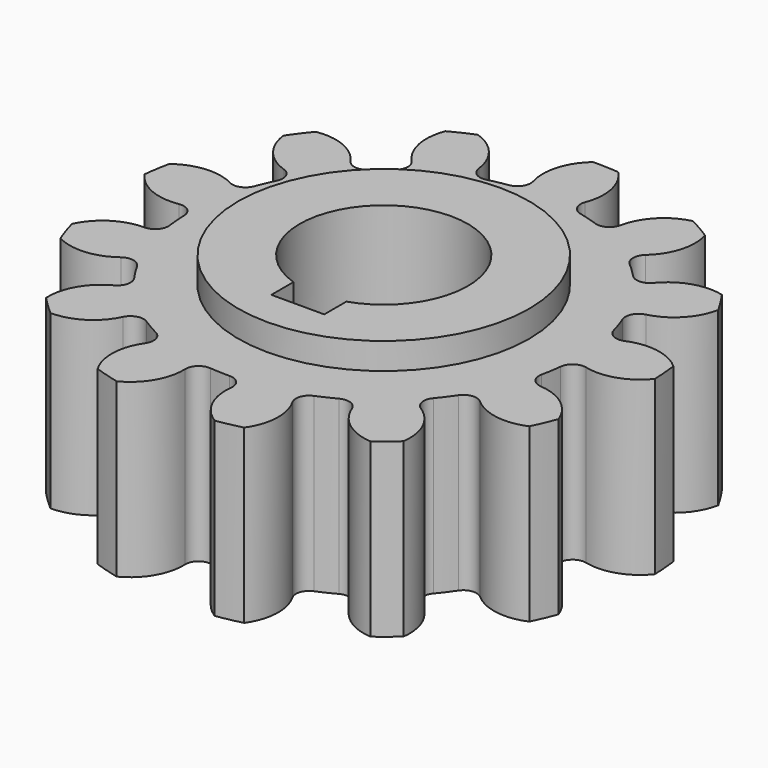
from build123d import *

# Parameters (mm, degrees)
F0_R     = 100
F1_DEPTH = 65
F2_R     = 55
F3_DEPTH = 10
F4_R     = 55
F5_DEPTH = 10
F7_DEPTH = 100
F9_DEPTH = 100


with BuildPart() as f1:
    # F0 (on Top) → F1 (new body)
    with BuildSketch(Plane.XY):
        Circle(F0_R)
    extrude(amount=-F1_DEPTH)

    # F2 (on face) → F3 (join)
    with BuildSketch(Plane.XY):
        Circle(F2_R)
    extrude(amount=F3_DEPTH)

    # F4 (on face) → F5 (join)
    with BuildSketch(Plane(origin=(0, 0, -65), x_dir=(1, 0, 0), z_dir=(0, 0, -1))):
        Circle(F4_R)
    extrude(amount=F5_DEPTH)

    # F6 (on face) → F7 (cut)
    with BuildSketch(Plane(origin=(0, 0, -75), x_dir=(1, 0, 0), z_dir=(0, 0, -1))):
        with BuildLine():
            Line((-10, 40.622641), (-10, 30.171126))
            ThreePointArc((-10, 30.171126), (0, -31.785167), (10, 30.171126))
            Line((10, 30.171126), (10, 40.622641))
            Line((10, 40.622641), (-10, 40.622641))
        make_face()
    extrude(amount=-F7_DEPTH, mode=Mode.SUBTRACT)

    # F8 (on face) → F9 (cut)
    with BuildSketch(Plane(origin=(0, 0, -65), x_dir=(1, 0, 0), z_dir=(0, 0, -1))):
        with BuildLine():
            ThreePointArc((-97.972724, 32.684038), (-98.378572, 32.261585), (-98.771916, 31.827468))
            ThreePointArc((-98.771916, 31.827468), (-103.438549, 8.327414), (-102.591438, -15.616529))
            ThreePointArc((-102.591438, -15.616529), (-102.272607, -16.10798), (-101.939568, -16.589917))
            ThreePointArc((-101.939568, -16.589917), (-93.359506, -5.422456), (-79.553654, -2.642511))
            ThreePointArc((-79.553654, -2.642511), (-75.571783, -1.559419), (-73.760239, 2.148234))
            ThreePointArc((-73.760239, 2.148234), (-73.553543, 5.921495), (-73.15395, 9.679226))
            ThreePointArc((-73.15395, 9.679226), (-74.349031, 13.62893), (-78.106352, 15.335073))
            ThreePointArc((-78.106352, 15.335073), (-91.289678, 20.287806), (-97.972724, 32.684038))
        make_face()
        with BuildLine():
            ThreePointArc((-97.972724, 32.684038), (-98.378572, 32.261585), (-98.771916, 31.827468))
            ThreePointArc((-98.771916, 31.827468), (-103.438549, 8.327414), (-102.591438, -15.616529))
            ThreePointArc((-102.591438, -15.616529), (-102.272607, -16.10798), (-101.939568, -16.589917))
            ThreePointArc((-101.939568, -16.589917), (-93.359506, -5.422456), (-79.553654, -2.642511))
            ThreePointArc((-79.553654, -2.642511), (-75.571783, -1.559419), (-73.760239, 2.148234))
            ThreePointArc((-73.760239, 2.148234), (-73.553543, 5.921495), (-73.15395, 9.679226))
            ThreePointArc((-73.15395, 9.679226), (-74.349031, 13.62893), (-78.106352, 15.335073))
            ThreePointArc((-78.106352, 15.335073), (-91.289678, 20.287806), (-97.972724, 32.684038))
        make_face()
        with BuildLine():
            ThreePointArc((-71.561509, 74.470473), (-72.117193, 74.285017), (-72.667226, 74.083422))
            ThreePointArc((-72.667226, 74.083422), (-87.720344, 55.44385), (-98.09757, 33.848869))
            ThreePointArc((-98.09757, 33.848869), (-98.043648, 33.265542), (-97.972724, 32.684038))
            ThreePointArc((-97.972724, 32.684038), (-85.185678, 38.584979), (-71.669298, 34.630598))
            ThreePointArc((-71.669298, 34.630598), (-67.640189, 33.739162), (-64.313114, 36.180259))
            ThreePointArc((-64.313114, 36.180259), (-62.376572, 39.425259), (-60.276445, 42.566864))
            ThreePointArc((-60.276445, 42.566864), (-59.499118, 46.619536), (-62.033176, 49.876364))
            ThreePointArc((-62.033176, 49.876364), (-71.404782, 60.388389), (-71.561509, 74.470473))
        make_face()
        with BuildLine():
            ThreePointArc((-71.561509, 74.470473), (-72.117193, 74.285017), (-72.667226, 74.083422))
            ThreePointArc((-72.667226, 74.083422), (-87.720344, 55.44385), (-98.09757, 33.848869))
            ThreePointArc((-98.09757, 33.848869), (-98.043648, 33.265542), (-97.972724, 32.684038))
            ThreePointArc((-97.972724, 32.684038), (-85.185678, 38.584979), (-71.669298, 34.630598))
            ThreePointArc((-71.669298, 34.630598), (-67.640189, 33.739162), (-64.313114, 36.180259))
            ThreePointArc((-64.313114, 36.180259), (-62.376572, 39.425259), (-60.276445, 42.566864))
            ThreePointArc((-60.276445, 42.566864), (-59.499118, 46.619536), (-62.033176, 49.876364))
            ThreePointArc((-62.033176, 49.876364), (-71.404782, 60.388389), (-71.561509, 74.470473))
        make_face()
        with BuildLine():
            ThreePointArc((-101.939568, -16.589917), (-102.102605, -17.152587), (-102.24915, -17.719775))
            ThreePointArc((-102.24915, -17.719775), (-95.460229, -40.696731), (-83.582844, -61.504368))
            ThreePointArc((-83.582844, -61.504368), (-83.072145, -61.791359), (-82.553286, -62.063322))
            ThreePointArc((-82.553286, -62.063322), (-80.145796, -48.187672), (-69.213226, -39.310254))
            ThreePointArc((-69.213226, -39.310254), (-66.190793, -36.500755), (-66.309783, -32.375925))
            ThreePointArc((-66.309783, -32.375925), (-67.880284, -28.938813), (-69.272766, -25.425807))
            ThreePointArc((-69.272766, -25.425807), (-72.166477, -22.4839), (-76.286304, -22.719299))
            ThreePointArc((-76.286304, -22.719299), (-90.261209, -24.460468), (-101.939568, -16.589917))
        make_face()
        with BuildLine():
            ThreePointArc((-101.939568, -16.589917), (-102.102605, -17.152587), (-102.24915, -17.719775))
            ThreePointArc((-102.24915, -17.719775), (-95.460229, -40.696731), (-83.582844, -61.504368))
            ThreePointArc((-83.582844, -61.504368), (-83.072145, -61.791359), (-82.553286, -62.063322))
            ThreePointArc((-82.553286, -62.063322), (-80.145796, -48.187672), (-69.213226, -39.310254))
            ThreePointArc((-69.213226, -39.310254), (-66.190793, -36.500755), (-66.309783, -32.375925))
            ThreePointArc((-66.309783, -32.375925), (-67.880284, -28.938813), (-69.272766, -25.425807))
            ThreePointArc((-69.272766, -25.425807), (-72.166477, -22.4839), (-76.286304, -22.719299))
            ThreePointArc((-76.286304, -22.719299), (-90.261209, -24.460468), (-101.939568, -16.589917))
        make_face()
        with BuildLine():
            ThreePointArc((-31.748947, 72.991582), (-35.16191, 86.65472), (-28.756415, 99.196621))
            ThreePointArc((-28.756415, 99.196621), (-29.334634, 99.290647), (-29.915351, 99.367756))
            ThreePointArc((-29.915351, 99.367756), (-51.906465, 89.858767), (-71.130731, 75.559899))
            ThreePointArc((-71.130731, 75.559899), (-71.354071, 75.01833), (-71.561509, 74.470473))
            ThreePointArc((-71.561509, 74.470473), (-57.496838, 73.753061), (-47.36637, 63.970256))
            ThreePointArc((-47.36637, 63.970256), (-44.213042, 61.308508), (-40.132629, 61.923823))
            ThreePointArc((-40.132629, 61.923823), (-36.90988, 63.897172), (-33.590333, 65.702947))
            ThreePointArc((-33.590333, 65.702947), (-31.018674, 68.930168), (-31.748947, 72.991582))
        make_face()
        with BuildLine():
            ThreePointArc((-31.748947, 72.991582), (-35.16191, 86.65472), (-28.756415, 99.196621))
            ThreePointArc((-28.756415, 99.196621), (-29.334634, 99.290647), (-29.915351, 99.367756))
            ThreePointArc((-29.915351, 99.367756), (-51.906465, 89.858767), (-71.130731, 75.559899))
            ThreePointArc((-71.130731, 75.559899), (-71.354071, 75.01833), (-71.561509, 74.470473))
            ThreePointArc((-71.561509, 74.470473), (-57.496838, 73.753061), (-47.36637, 63.970256))
            ThreePointArc((-47.36637, 63.970256), (-44.213042, 61.308508), (-40.132629, 61.923823))
            ThreePointArc((-40.132629, 61.923823), (-36.90988, 63.897172), (-33.590333, 65.702947))
            ThreePointArc((-33.590333, 65.702947), (-31.018674, 68.930168), (-31.748947, 72.991582))
        make_face()
        with BuildLine():
            ThreePointArc((-6.758243, 73.481385), (-2.98758, 73.731012), (0.790919, 73.787277))
            ThreePointArc((0.790919, 73.787277), (4.567774, 75.449729), (5.808583, 79.385307))
            ThreePointArc((5.808583, 79.385307), (9.136131, 93.069498), (20.636427, 101.198018))
            ThreePointArc((20.636427, 101.198018), (20.168136, 101.549985), (19.689771, 101.888135))
            ThreePointArc((19.689771, 101.888135), (-4.201441, 103.688124), (-27.868698, 99.961067))
            ThreePointArc((-27.868698, 99.961067), (-28.318136, 99.585322), (-28.756415, 99.196621))
            ThreePointArc((-28.756415, 99.196621), (-16.636165, 92.025205), (-12.212378, 78.655098))
            ThreePointArc((-12.212378, 78.655098), (-10.65722, 74.832813), (-6.758243, 73.481385))
        make_face()
        with BuildLine():
            ThreePointArc((-6.758243, 73.481385), (-2.98758, 73.731012), (0.790919, 73.787277))
            ThreePointArc((0.790919, 73.787277), (4.567774, 75.449729), (5.808583, 79.385307))
            ThreePointArc((5.808583, 79.385307), (9.136131, 93.069498), (20.636427, 101.198018))
            ThreePointArc((20.636427, 101.198018), (20.168136, 101.549985), (19.689771, 101.888135))
            ThreePointArc((19.689771, 101.888135), (-4.201441, 103.688124), (-27.868698, 99.961067))
            ThreePointArc((-27.868698, 99.961067), (-28.318136, 99.585322), (-28.756415, 99.196621))
            ThreePointArc((-28.756415, 99.196621), (-16.636165, 92.025205), (-12.212378, 78.655098))
            ThreePointArc((-12.212378, 78.655098), (-10.65722, 74.832813), (-6.758243, 73.481385))
        make_face()
        with BuildLine():
            ThreePointArc((103.518596, -7.264953), (102.425693, 16.66903), (95.873038, 39.714479))
            ThreePointArc((95.873038, 39.714479), (95.445859, 40.115349), (95.007163, 40.50358))
            ThreePointArc((95.007163, 40.50358), (89.34897, 27.607282), (76.609575, 21.60416))
            ThreePointArc((76.609575, 21.60416), (73.002611, 19.599616), (72.131007, 15.56617))
            ThreePointArc((72.131007, 15.56617), (72.833317, 11.853088), (73.344619, 8.108921))
            ThreePointArc((73.344619, 8.108921), (75.4502, 4.55999), (79.506646, 3.80261))
            ThreePointArc((79.506646, 3.80261), (93.492156, 2.14877), (102.947617, -8.287891))
            ThreePointArc((102.947617, -8.287891), (103.240572, -7.780589), (103.518596, -7.264953))
        make_face()
        with BuildLine():
            ThreePointArc((103.518596, -7.264953), (102.425693, 16.66903), (95.873038, 39.714479))
            ThreePointArc((95.873038, 39.714479), (95.445859, 40.115349), (95.007163, 40.50358))
            ThreePointArc((95.007163, 40.50358), (89.34897, 27.607282), (76.609575, 21.60416))
            ThreePointArc((76.609575, 21.60416), (73.002611, 19.599616), (72.131007, 15.56617))
            ThreePointArc((72.131007, 15.56617), (72.833317, 11.853088), (73.344619, 8.108921))
            ThreePointArc((73.344619, 8.108921), (75.4502, 4.55999), (79.506646, 3.80261))
            ThreePointArc((79.506646, 3.80261), (93.492156, 2.14877), (102.947617, -8.287891))
            ThreePointArc((102.947617, -8.287891), (103.240572, -7.780589), (103.518596, -7.264953))
        make_face()
        with BuildLine():
            ThreePointArc((95.037356, 41.674694), (82.946962, 62.359286), (66.43512, 79.719847))
            ThreePointArc((66.43512, 79.719847), (65.870579, 79.87628), (65.301713, 80.016169))
            ThreePointArc((65.301713, 80.016169), (66.28484, 65.967571), (57.794455, 54.731778))
            ThreePointArc((57.794455, 54.731778), (55.532206, 51.280603), (56.634875, 47.304109))
            ThreePointArc((56.634875, 47.304109), (58.982295, 44.342719), (61.175032, 41.265037))
            ThreePointArc((61.175032, 41.265037), (64.688701, 39.101127), (68.632478, 40.315624))
            ThreePointArc((68.632478, 40.315624), (81.784609, 45.350613), (95.007163, 40.50358))
            ThreePointArc((95.007163, 40.50358), (95.030807, 41.088916), (95.037356, 41.674694))
        make_face()
        with BuildLine():
            ThreePointArc((95.037356, 41.674694), (82.946962, 62.359286), (66.43512, 79.719847))
            ThreePointArc((66.43512, 79.719847), (65.870579, 79.87628), (65.301713, 80.016169))
            ThreePointArc((65.301713, 80.016169), (66.28484, 65.967571), (57.794455, 54.731778))
            ThreePointArc((57.794455, 54.731778), (55.532206, 51.280603), (56.634875, 47.304109))
            ThreePointArc((56.634875, 47.304109), (58.982295, 44.342719), (61.175032, 41.265037))
            ThreePointArc((61.175032, 41.265037), (64.688701, 39.101127), (68.632478, 40.315624))
            ThreePointArc((68.632478, 40.315624), (81.784609, 45.350613), (95.007163, 40.50358))
            ThreePointArc((95.007163, 40.50358), (95.030807, 41.088916), (95.037356, 41.674694))
        make_face()
        with BuildLine():
            ThreePointArc((5.265805, -103.639522), (28.893547, -99.669665), (50.981133, -90.386964))
            ThreePointArc((50.981133, -90.386964), (51.32759, -89.91458), (51.660111, -89.432287))
            ThreePointArc((51.660111, -89.432287), (38.175822, -85.369825), (30.680905, -73.446911))
            ThreePointArc((30.680905, -73.446911), (28.256205, -70.107867), (24.147107, -69.728796))
            ThreePointArc((24.147107, -69.728796), (20.545752, -70.873548), (16.890515, -71.832432))
            ThreePointArc((16.890515, -71.832432), (13.621259, -74.350437), (13.358352, -78.468599))
            ThreePointArc((13.358352, -78.468599), (13.402337, -92.551487), (4.181501, -103.196008))
            ThreePointArc((4.181501, -103.196008), (4.720416, -103.425678), (5.265805, -103.639522))
        make_face()
        with BuildLine():
            ThreePointArc((5.265805, -103.639522), (28.893547, -99.669665), (50.981133, -90.386964))
            ThreePointArc((50.981133, -90.386964), (51.32759, -89.91458), (51.660111, -89.432287))
            ThreePointArc((51.660111, -89.432287), (38.175822, -85.369825), (30.680905, -73.446911))
            ThreePointArc((30.680905, -73.446911), (28.256205, -70.107867), (24.147107, -69.728796))
            ThreePointArc((24.147107, -69.728796), (20.545752, -70.873548), (16.890515, -71.832432))
            ThreePointArc((16.890515, -71.832432), (13.621259, -74.350437), (13.358352, -78.468599))
            ThreePointArc((13.358352, -78.468599), (13.402337, -92.551487), (4.181501, -103.196008))
            ThreePointArc((4.181501, -103.196008), (4.720416, -103.425678), (5.265805, -103.639522))
        make_face()
        with BuildLine():
            ThreePointArc((52.826326, -89.321098), (71.902768, -74.825604), (87.146468, -56.341568))
            ThreePointArc((87.146468, -56.341568), (87.233713, -55.762287), (87.304013, -55.180706))
            ThreePointArc((87.304013, -55.180706), (73.476347, -57.850037), (61.299074, -50.775882))
            ThreePointArc((61.299074, -50.775882), (57.600378, -48.94612), (53.785789, -50.520062))
            ThreePointArc((53.785789, -50.520062), (51.12894, -53.207323), (48.338004, -55.755046))
            ThreePointArc((48.338004, -55.755046), (46.613397, -59.503928), (48.294409, -63.272559))
            ThreePointArc((48.294409, -63.272559), (54.878001, -75.721895), (51.660111, -89.432287))
            ThreePointArc((51.660111, -89.432287), (52.24403, -89.385203), (52.826326, -89.321098))
        make_face()
        with BuildLine():
            ThreePointArc((52.826326, -89.321098), (71.902768, -74.825604), (87.146468, -56.341568))
            ThreePointArc((87.146468, -56.341568), (87.233713, -55.762287), (87.304013, -55.180706))
            ThreePointArc((87.304013, -55.180706), (73.476347, -57.850037), (61.299074, -50.775882))
            ThreePointArc((61.299074, -50.775882), (57.600378, -48.94612), (53.785789, -50.520062))
            ThreePointArc((53.785789, -50.520062), (51.12894, -53.207323), (48.338004, -55.755046))
            ThreePointArc((48.338004, -55.755046), (46.613397, -59.503928), (48.294409, -63.272559))
            ThreePointArc((48.294409, -63.272559), (54.878001, -75.721895), (51.660111, -89.432287))
            ThreePointArc((51.660111, -89.432287), (52.24403, -89.385203), (52.826326, -89.321098))
        make_face()
        with BuildLine():
            ThreePointArc((88.284972, -54.540287), (98.439932, -32.8399), (103.347597, -9.388997))
            ThreePointArc((103.347597, -9.388997), (103.155643, -8.835525), (102.947617, -8.287891))
            ThreePointArc((102.947617, -8.287891), (91.944327, -17.077503), (77.874363, -16.472711))
            ThreePointArc((77.874363, -16.472711), (73.748998, -16.571407), (71.102795, -19.737791))
            ThreePointArc((71.102795, -19.737791), (69.999104, -23.351942), (68.711839, -26.904851))
            ThreePointArc((68.711839, -26.904851), (68.926967, -31.025786), (72.1668, -33.581537))
            ThreePointArc((72.1668, -33.581537), (83.781776, -41.545329), (87.304013, -55.180706))
            ThreePointArc((87.304013, -55.180706), (87.799166, -54.867656), (88.284972, -54.540287))
        make_face()
        with BuildLine():
            ThreePointArc((88.284972, -54.540287), (98.439932, -32.8399), (103.347597, -9.388997))
            ThreePointArc((103.347597, -9.388997), (103.155643, -8.835525), (102.947617, -8.287891))
            ThreePointArc((102.947617, -8.287891), (91.944327, -17.077503), (77.874363, -16.472711))
            ThreePointArc((77.874363, -16.472711), (73.748998, -16.571407), (71.102795, -19.737791))
            ThreePointArc((71.102795, -19.737791), (69.999104, -23.351942), (68.711839, -26.904851))
            ThreePointArc((68.711839, -26.904851), (68.926967, -31.025786), (72.1668, -33.581537))
            ThreePointArc((72.1668, -33.581537), (83.781776, -41.545329), (87.304013, -55.180706))
            ThreePointArc((87.304013, -55.180706), (87.799166, -54.867656), (88.284972, -54.540287))
        make_face()
        with BuildLine():
            ThreePointArc((-44.255041, -93.318767), (-43.884589, -93.772577), (-43.501049, -94.21538))
            ThreePointArc((-43.501049, -94.21538), (-20.734837, -101.680606), (3.136635, -103.725796))
            ThreePointArc((3.136635, -103.725796), (3.662934, -103.468527), (4.181501, -103.196008))
            ThreePointArc((4.181501, -103.196008), (-5.870324, -93.332415), (-6.965889, -79.292137))
            ThreePointArc((-6.965889, -79.292137), (-7.561123, -75.208747), (-11.023386, -72.963503))
            ThreePointArc((-11.023386, -72.963503), (-14.74422, -72.303498), (-18.426387, -71.453874))
            ThreePointArc((-18.426387, -71.453874), (-22.491345, -72.164157), (-24.637944, -75.68843))
            ThreePointArc((-24.637944, -75.68843), (-31.14364, -88.178649), (-44.255041, -93.318767))
        make_face()
        with BuildLine():
            ThreePointArc((-44.255041, -93.318767), (-43.884589, -93.772577), (-43.501049, -94.21538))
            ThreePointArc((-43.501049, -94.21538), (-20.734837, -101.680606), (3.136635, -103.725796))
            ThreePointArc((3.136635, -103.725796), (3.662934, -103.468527), (4.181501, -103.196008))
            ThreePointArc((4.181501, -103.196008), (-5.870324, -93.332415), (-6.965889, -79.292137))
            ThreePointArc((-6.965889, -79.292137), (-7.561123, -75.208747), (-11.023386, -72.963503))
            ThreePointArc((-11.023386, -72.963503), (-14.74422, -72.303498), (-18.426387, -71.453874))
            ThreePointArc((-18.426387, -71.453874), (-22.491345, -72.164157), (-24.637944, -75.68843))
            ThreePointArc((-24.637944, -75.68843), (-31.14364, -88.178649), (-44.255041, -93.318767))
        make_face()
        with BuildLine():
            ThreePointArc((-82.553286, -62.063322), (-82.436163, -62.637308), (-82.302336, -63.207631))
            ThreePointArc((-82.302336, -63.207631), (-65.61312, -80.397746), (-45.426428, -93.302298))
            ThreePointArc((-45.426428, -93.302298), (-44.840855, -93.319082), (-44.255041, -93.318767))
            ThreePointArc((-44.255041, -93.318767), (-48.57165, -79.913673), (-43.016882, -66.972491))
            ThreePointArc((-43.016882, -66.972491), (-41.64629, -63.080209), (-43.668554, -59.483151))
            ThreePointArc((-43.668554, -59.483151), (-46.656469, -57.169587), (-49.522027, -54.706094))
            ThreePointArc((-49.522027, -54.706094), (-53.451453, -53.445939), (-56.989983, -55.568953))
            ThreePointArc((-56.989983, -55.568953), (-68.554985, -63.605144), (-82.553286, -62.063322))
        make_face()
        with BuildLine():
            ThreePointArc((-82.553286, -62.063322), (-82.436163, -62.637308), (-82.302336, -63.207631))
            ThreePointArc((-82.302336, -63.207631), (-65.61312, -80.397746), (-45.426428, -93.302298))
            ThreePointArc((-45.426428, -93.302298), (-44.840855, -93.319082), (-44.255041, -93.318767))
            ThreePointArc((-44.255041, -93.318767), (-48.57165, -79.913673), (-43.016882, -66.972491))
            ThreePointArc((-43.016882, -66.972491), (-41.64629, -63.080209), (-43.668554, -59.483151))
            ThreePointArc((-43.668554, -59.483151), (-46.656469, -57.169587), (-49.522027, -54.706094))
            ThreePointArc((-49.522027, -54.706094), (-53.451453, -53.445939), (-56.989983, -55.568953))
            ThreePointArc((-56.989983, -55.568953), (-68.554985, -63.605144), (-82.553286, -62.063322))
        make_face()
        with BuildLine():
            ThreePointArc((21.777717, 101.462359), (21.205143, 101.338518), (20.636427, 101.198018))
            ThreePointArc((20.636427, 101.198018), (28.035652, 89.215484), (25.739323, 75.321006))
            ThreePointArc((25.739323, 75.321006), (25.340042, 71.213822), (28.164375, 68.205247))
            ThreePointArc((28.164375, 68.205247), (31.61914, 66.673967), (34.990981, 64.967831))
            ThreePointArc((34.990981, 64.967831), (39.1078, 64.684667), (42.035437, 67.592816))
            ThreePointArc((42.035437, 67.592816), (51.341194, 78.163176), (65.301713, 80.016169))
            ThreePointArc((65.301713, 80.016169), (65.050629, 80.545446), (64.784204, 81.06717))
            ThreePointArc((64.784204, 81.06717), (44.466082, 93.763781), (21.777717, 101.462359))
        make_face()
        with BuildLine():
            ThreePointArc((21.777717, 101.462359), (21.205143, 101.338518), (20.636427, 101.198018))
            ThreePointArc((20.636427, 101.198018), (28.035652, 89.215484), (25.739323, 75.321006))
            ThreePointArc((25.739323, 75.321006), (25.340042, 71.213822), (28.164375, 68.205247))
            ThreePointArc((28.164375, 68.205247), (31.61914, 66.673967), (34.990981, 64.967831))
            ThreePointArc((34.990981, 64.967831), (39.1078, 64.684667), (42.035437, 67.592816))
            ThreePointArc((42.035437, 67.592816), (51.341194, 78.163176), (65.301713, 80.016169))
            ThreePointArc((65.301713, 80.016169), (65.050629, 80.545446), (64.784204, 81.06717))
            ThreePointArc((64.784204, 81.06717), (44.466082, 93.763781), (21.777717, 101.462359))
        make_face()
    extrude(amount=-F9_DEPTH, mode=Mode.SUBTRACT)


solid = f1.part
